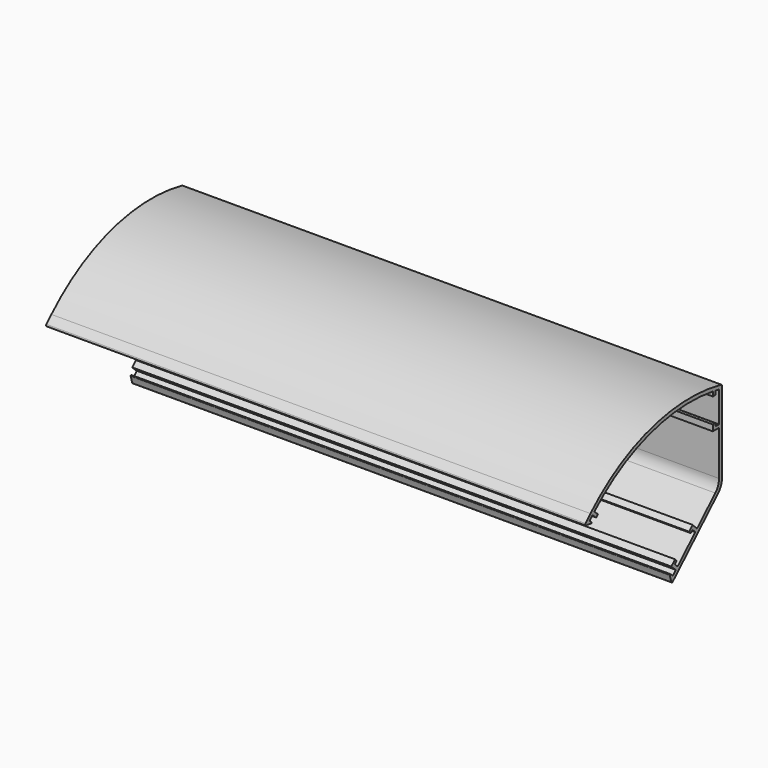
from build123d import *

# Parameters (mm, degrees)
F1_DEPTH  = 112.7125
F2_T      = -1.524
F5_DEPTH  = 225.425
F7_DEPTH  = 225.425
F8_R      = 51.8099901909
F9_DEPTH  = 225.425
F14_W     = 1.27
F14_H     = 1.8664713708
F15_DEPTH = 225.425
F16_R     = 0.508
F17_R     = 6.35
F18_R     = 0.254


with BuildPart() as f1:
    # F0 (on Right) → F1 (new body, symmetric)
    with BuildSketch(Plane.YZ):
        with BuildLine():
            Line((-72.136, 14.4276117903), (-26.3105725372, -25.4078245579))
            Line((-26.3105725372, -25.4078245579), (0, 0))
            Line((0, 0), (0, 37.338))
            ThreePointArc((0, 37.338), (-36.8647965725, 36.3151722047), (-68.7392263709, 17.7657752319))
            Line((-68.7392263709, 17.7657752319), (-72.136, 14.4276117903))
        make_face()
    extrude(amount=F1_DEPTH, both=True)

    # F2
    f2_openings = [f1.faces().sort_by_distance(p)[0] for p in [
        (0, -49.223286, -5.490106),
        (-112.7125, -29.609995, 11.681685),
        (112.7125, -29.609995, 11.681685),
    ]]
    offset(amount=F2_T, openings=f2_openings)

    # F4 (on face) → F5 (join, through all)
    with BuildSketch(Plane(origin=(-112.7125, 0, 0), x_dir=(0, -1, 0), z_dir=(-1, 0, 0))):
        Polygon((69.0653059094, 11.7582981414), (70.9822682431, 13.424688075), (69.170655641, 15.2050419106), (67.2536933072, 13.5386519769), align=None)
    extrude(amount=-F5_DEPTH)

    # F6 (on face) → F7 (join, through all)
    with BuildSketch(Plane(origin=(-112.7125, 0, 0), x_dir=(0, -1, 0), z_dir=(-1, 0, 0))):
        Polygon((27.5549826692, -20.9733491998), (25.6380203354, -22.6397391335), (27.4651434283, -24.4041713944), (29.382105762, -22.7377814608), align=None)
    extrude(amount=-F7_DEPTH)

    # F8 (on face) → F9 (cut, through all)
    with BuildSketch(Plane(origin=(-112.7125, 0, 0), x_dir=(0, -1, 0), z_dir=(-1, 0, 0))):
        with Locations((76.7665722185, -37.1750323717)):
            Circle(F8_R)
    extrude(amount=-F9_DEPTH, mode=Mode.SUBTRACT)

    # F10 (on face) + F11 (on face) + F12 (on face) + F13 (on face) + F14 (on face) → F15 (join, through all)
    with BuildSketch(Plane(origin=(-112.7125, 0, 0), x_dir=(0, -1, 0), z_dir=(-1, 0, 0))):
        Polygon((23.17140416, -20.2577555812), (24.0849657065, -21.1399717116), (25.5666650167, -19.8519501518), (24.530017001, -18.8508707997), align=None)
    with BuildSketch(Plane(origin=(-112.7125, 0, 0), x_dir=(0, -1, 0), z_dir=(-1, 0, 0))):
        Polygon((23.6164554546, -17.9686546692), (25.5666650167, -19.8519501518), (26.4488811472, -18.9383886054), (24.498671585, -17.0550931227), align=None)
    with BuildSketch(Plane(origin=(-112.7125, 0, 0), x_dir=(0, -1, 0), z_dir=(-1, 0, 0))):
        Polygon((65.7138225954, 15.0519527371), (67.6307849291, 16.7183426707), (66.724978628, 17.6085195885), (64.8080162943, 15.9421296549), align=None)
    with BuildSketch(Plane(origin=(-112.7125, 0, 0), x_dir=(0, -1, 0), z_dir=(-1, 0, 0))):
        Polygon((13.0308709947, -10.4651565328), (13.9444325411, -11.3473726633), (15.303045382, -9.9404878818), (16.2166069285, -10.8227040123), (17.098823059, -9.9091424658), (15.2716999661, -8.1447102049), align=None)
    with BuildSketch(Plane(origin=(-112.7125, 0, 0), x_dir=(0, -1, 0), z_dir=(-1, 0, 0))):
        Polygon((1.524, 23.2821790422), (1.524, 22.0121790422), (4.7498, 22.0121790422), (4.7498, 24.5521790422), (3.4798, 24.5521790422), (3.4798, 23.2821790422), align=None)
        with Locations((4.1148, 35.7724147276)):
            Rectangle(F14_W, F14_H)
    extrude(amount=-F15_DEPTH)

    # F16
    f16_edges = [f1.edges().sort_by_distance(p)[0] for p in [
        (0, -26.310573, -25.407825),
        (0, -72.136, 14.427612),
        (0, 0, 37.338),
    ]]
    fillet(f16_edges, radius=F16_R)

    # F17
    f17_edges = [f1.edges().sort_by_distance(p)[0] for p in [
        (0, -1.524, 0.6469),
        (0, 0, 0),
    ]]
    fillet(f17_edges, radius=F17_R)

    # F18
    f18_edges = [f1.edges().sort_by_distance(p)[0] for p in [
        (0, -27.554983, -20.973349),
        (0, -67.567953, 13.811833),
    ]]
    fillet(f18_edges, radius=F18_R)


solid = f1.part
